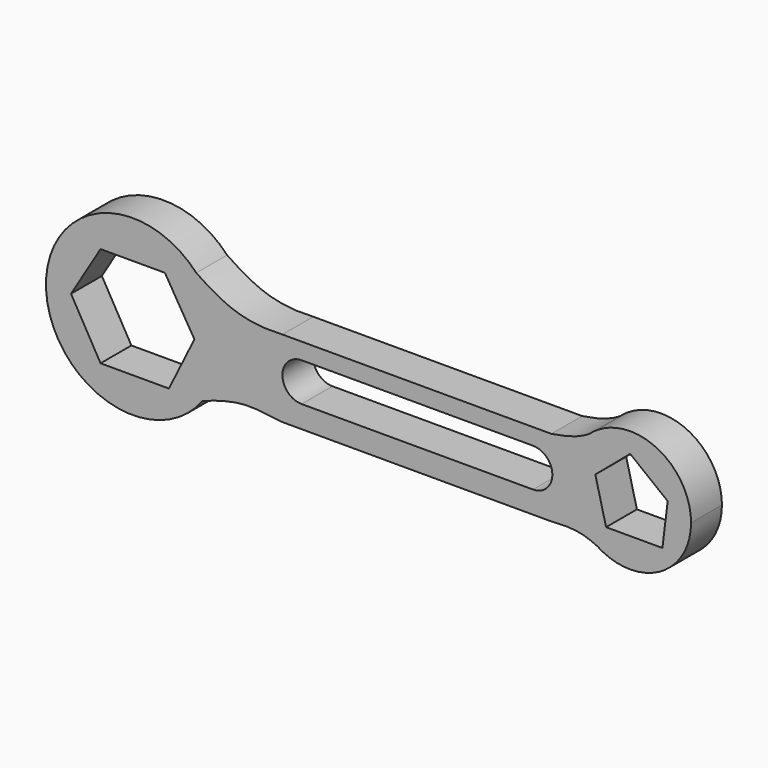
from build123d import *

# Parameters (mm, degrees)
F1_DEPTH = 254


with BuildPart() as f1:
    # F0 (on Front) → F1 (new body)
    with BuildSketch(Plane.XZ):
        with BuildLine():
            ThreePointArc((-1087.141313, -341.260851), (-1003.070928, -179.753285), (-974.066095, 0))
            ThreePointArc((-974.066095, 0), (-1013.665343, 209.030715), (-1126.975421, 389.093944))
            ThreePointArc((-1126.975421, 389.093944), (-2116.217968, -31.123789), (-1087.141313, -341.260851))
        make_face()
        Polygon((-1757.529435, 322.360922), (-1333.602755, 322.360922), (-1139.302952, 0), (-1307.107338, -340.024515), (-1757.529435, -340.024515), (-1951.829126, 0), align=None, mode=Mode.SUBTRACT)
        with BuildLine():
            ThreePointArc((-1126.975421, 389.093944), (-1013.665343, 209.030715), (-974.066095, 0))
            ThreePointArc((-974.066095, 0), (-1003.070928, -179.753285), (-1087.141313, -341.260851))
            add(Edge.make_bspline(
                [(-559.758476, -291.566129), (-761.299014, -266.459793), (-841.472745, -247.595385), (-1087.141313, -341.260851)],
                knots=[0, 0, 0, 0, 529.719003, 529.719003, 529.719003, 529.719003], degree=3))
            Line((-559.758476, -291.566129), (1211.268242, -291.566129))
            add(Edge.make_bspline(
                [(1211.268242, -291.566129), (1346.620798, -281.230956), (1417.175412, -290.896773), (1510.675747, -334.88778)],
                knots=[0, 0, 0, 0, 302.525402, 302.525402, 302.525402, 302.525402], degree=3))
            ThreePointArc((1510.675747, -334.88778), (1331.186688, -28.805318), (1464.949151, 299.844038))
            add(Edge.make_bspline(
                [(1211.268242, 216.433871), (1312.98523, 231.938394), (1393.292829, 252.429568), (1464.949151, 299.844038)],
                knots=[0, 0, 0, 0, 264.395233, 264.395233, 264.395233, 264.395233], degree=3))
            Line((1211.268242, 216.433871), (-559.758476, 216.433871))
            add(Edge.make_bspline(
                [(-559.758476, 216.433871), (-812.648896, 202.305573), (-944.243729, 266.517401), (-1126.975421, 389.093944)],
                knots=[0, 0, 0, 0, 592.913622, 592.913622, 592.913622, 592.913622], degree=3))
        make_face()
        with BuildLine():
            ThreePointArc((-432.758476, -145.72481), (-559.758476, -18.72481), (-432.758476, 108.27519))
            Line((-432.758476, 108.27519), (1091.241524, 108.27519))
            ThreePointArc((1091.241524, 108.27519), (1218.241524, -18.72481), (1091.241524, -145.72481))
            Line((1091.241524, -145.72481), (-432.758476, -145.72481))
        make_face(mode=Mode.SUBTRACT)
        with BuildLine():
            add(Edge.make_bspline(
                [(1464.949151, 299.844038), (1480.557889, 310.172226), (1495.756133, 321.777897), (1510.675747, 334.88778)],
                knots=[264.395233, 264.395233, 264.395233, 264.395233, 321.987861, 321.987861, 321.987861, 321.987861], degree=3))
            ThreePointArc((1464.949151, 299.844038), (1331.186688, -28.805318), (1510.675747, -334.88778))
            ThreePointArc((1510.675747, -334.88778), (1921.256936, -352.877799), (2131.917358, 0))
            ThreePointArc((2131.917358, 0), (1921.256936, 352.877799), (1510.675747, 334.88778))
        make_face()
        Polygon((1501.407028, 75.070354), (1731.033905, 269.370087), (1977.955699, 75.070354), (1942.997132, -207.547456), (1572.0614, -207.547456), align=None, mode=Mode.SUBTRACT)
        with BuildLine():
            ThreePointArc((1510.675747, 334.88778), (1487.182121, 318.188388), (1464.949151, 299.844038))
            add(Edge.make_bspline(
                [(1464.949151, 299.844038), (1480.557889, 310.172226), (1495.756133, 321.777897), (1510.675747, 334.88778)],
                knots=[264.395233, 264.395233, 264.395233, 264.395233, 321.987861, 321.987861, 321.987861, 321.987861], degree=3))
        make_face()
    extrude(amount=F1_DEPTH)


solid = f1.part
